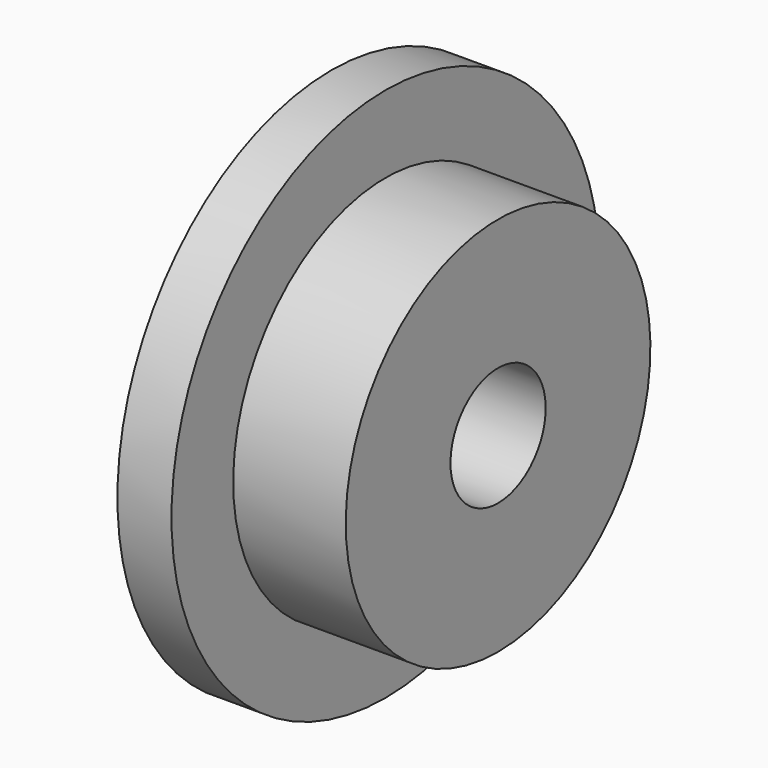
from build123d import *

# Parameters (mm, degrees)
F0_W   = 15.0114
F0_H   = 17.4625
F0_W_2 = 7.2136
F0_H_2 = 10.287


with BuildPart() as f1:
    # F0 (on Front) → F1 (revolve)
    with BuildSketch(Plane.XZ):
        with Locations((14.7193, -16.66875)):
            Rectangle(F0_W, F0_H)
        with Locations((3.6068, -16.66875)):
            Rectangle(F0_W_2, F0_H)
        with Locations((3.6068, -30.5435)):
            Rectangle(F0_W_2, F0_H_2)
    revolve(axis=Axis((13.067117, 0, 0), (1, 0, 0)))


solid = f1.part
